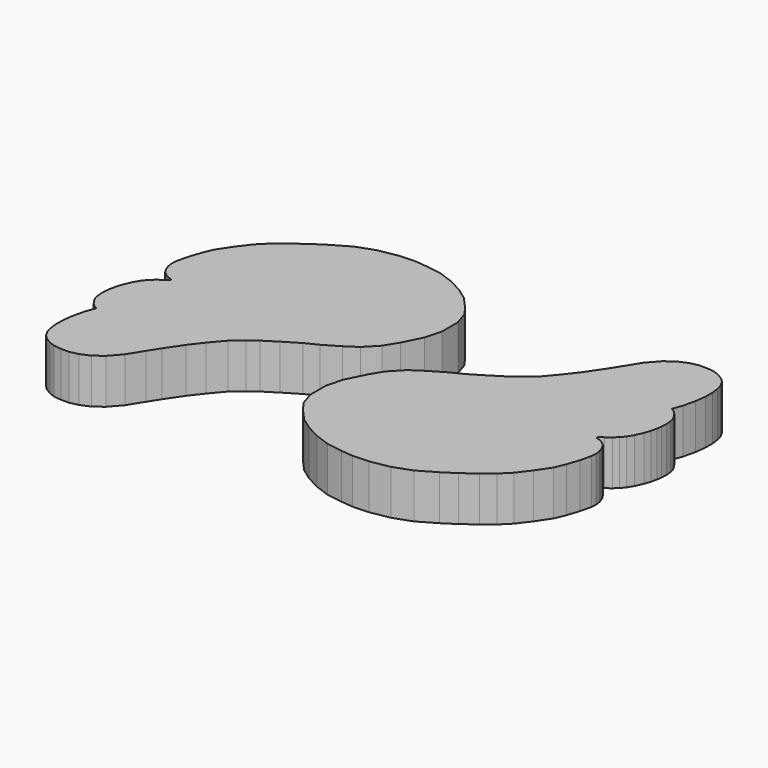
from build123d import *

# Parameters (mm, degrees)
PAD040_DEPTH            = 5
BODY040_PLACEMENT_ANGLE = 180
PAD039_DEPTH            = 5


with BuildPart() as body040:
    # Sketch042 → Pad040 (new body)
    with BuildSketch(Plane.XY):
        Polygon((-0.715895, 10.459235), (0.958153, 11.443971), (2.336782, 12.133285), (4.060069, 13.167257), (5.537171, 14.102756), (6.536532, 14.831632), (7.712062, 15.853839), (8.973101, 17.336113), (10.079276, 18.774139), (11.296068, 20.566143), (12.092514, 21.827183), (13.116936, 23.475929), (14.223111, 24.736969), (15.240791, 25.489166), (16.280596, 25.931637), (17.221134, 26.137039), (18.110924, 26.137039), (18.926565, 26.048061), (19.579077, 25.810783), (20.261248, 25.395548), (20.720972, 24.935823), (21.062059, 24.312971), (21.241928, 23.641508), (21.345737, 22.840698), (21.345737, 21.87676), (21.197439, 20.690374), (20.871256, 19.321636), (20.485682, 18.239059), (20.894186, 17.997505), (21.202349, 17.699284), (21.480688, 17.301653), (21.749088, 16.804617), (21.858437, 16.327463), (21.90814, 15.76084), (21.878248, 15.092189), (21.808664, 14.545448), (21.659552, 13.879419), (21.430916, 13.203449), (21.042017, 12.334372), (20.664268, 11.708105), (20.256699, 11.221009), (19.799425, 10.813439), (19.252686, 10.395929), (18.77553, 10.048003), (18.764149, 9.924158), (18.923201, 9.834691), (19.221422, 9.765106), (19.569347, 9.566292), (19.998131, 9.245623), (20.23671, 8.897697), (20.435524, 8.450364), (20.544872, 8.11238), (20.634338, 7.525877), (20.584635, 6.919492), (20.302982, 5.715654), (19.850153, 4.339052), (19.361095, 3.179808), (18.328644, 1.640186), (17.289362, 0.272043), (16.238798, -0.778522), (15.043327, -1.720408), (13.576158, -2.8072), (12.181441, -3.71286), (10.236815, -4.842392), (8.226252, -5.56692), (6.107007, -5.947297), (4.295688, -6.01975), (2.991537, -5.892957), (1.173591, -5.613963), (-0.443623, -5.019885), (-1.961825, -4.227778), (-3.248996, -3.303655), (-4.536168, -1.884467), (-5.262265, -0.86133), (-5.75733, 0.656871), (-5.75733, 2.868166), (-5.262265, 4.716413), (-4.237876, 6.772507), (-3.346758, 8.224701), (-2.043983, 9.573533), align=None)
    extrude(amount=PAD040_DEPTH)


with BuildPart() as body040_1:
    # Body040 placement: moved
    add(body040.part.moved(Location((-10, 20, -5))).rotate(Axis((-10, 20, -5), (0, 0, 1)), BODY040_PLACEMENT_ANGLE))


with BuildPart() as fusion006:
    # Sketch041 → Pad039 (new body)
    with BuildSketch(Plane.XY):
        Polygon((-0.715895, 10.459235), (0.958153, 11.443971), (2.336782, 12.133285), (4.060069, 13.167257), (5.537171, 14.102756), (6.536532, 14.831632), (7.712062, 15.853839), (8.973101, 17.336113), (10.079276, 18.774139), (11.296068, 20.566143), (12.092514, 21.827183), (13.116936, 23.475929), (14.223111, 24.736969), (15.240791, 25.489166), (16.280596, 25.931637), (17.221134, 26.137039), (18.110924, 26.137039), (18.926565, 26.048061), (19.579077, 25.810783), (20.261248, 25.395548), (20.720972, 24.935823), (21.062059, 24.312971), (21.241928, 23.641508), (21.345737, 22.840698), (21.345737, 21.87676), (21.197439, 20.690374), (20.871256, 19.321636), (20.485682, 18.239059), (20.894186, 17.997505), (21.202349, 17.699284), (21.480688, 17.301653), (21.749088, 16.804617), (21.858437, 16.327463), (21.90814, 15.76084), (21.878248, 15.092189), (21.808664, 14.545448), (21.659552, 13.879419), (21.430916, 13.203449), (21.042017, 12.334372), (20.664268, 11.708105), (20.256699, 11.221009), (19.799425, 10.813439), (19.252686, 10.395929), (18.77553, 10.048003), (18.764149, 9.924158), (18.923201, 9.834691), (19.221422, 9.765106), (19.569347, 9.566292), (19.998131, 9.245623), (20.23671, 8.897697), (20.435524, 8.450364), (20.544872, 8.11238), (20.634338, 7.525877), (20.584635, 6.919492), (20.302982, 5.715654), (19.850153, 4.339052), (19.361095, 3.179808), (18.328644, 1.640186), (17.289362, 0.272043), (16.238798, -0.778522), (15.043327, -1.720408), (13.576158, -2.8072), (12.181441, -3.71286), (10.236815, -4.842392), (8.226252, -5.56692), (6.107007, -5.947297), (4.295688, -6.01975), (2.991537, -5.892957), (1.173591, -5.613963), (-0.443623, -5.019885), (-1.961825, -4.227778), (-3.248996, -3.303655), (-4.536168, -1.884467), (-5.262265, -0.86133), (-5.75733, 0.656871), (-5.75733, 2.868166), (-5.262265, 4.716413), (-4.237876, 6.772507), (-3.346758, 8.224701), (-2.043983, 9.573533), align=None)
    extrude(amount=PAD039_DEPTH)


with BuildPart() as fusion006_1:
    # Body039 placement: moved
    add(fusion006.part.moved(Location((0, 0, -5))))

    # Fusion006: union Body040
    add(body040_1.part)


with BuildPart() as fusion006_2:
    # Fusion006 placement: moved
    add(fusion006_1.part.moved(Location((-20, 25, 0))))


solid = fusion006_2.part
